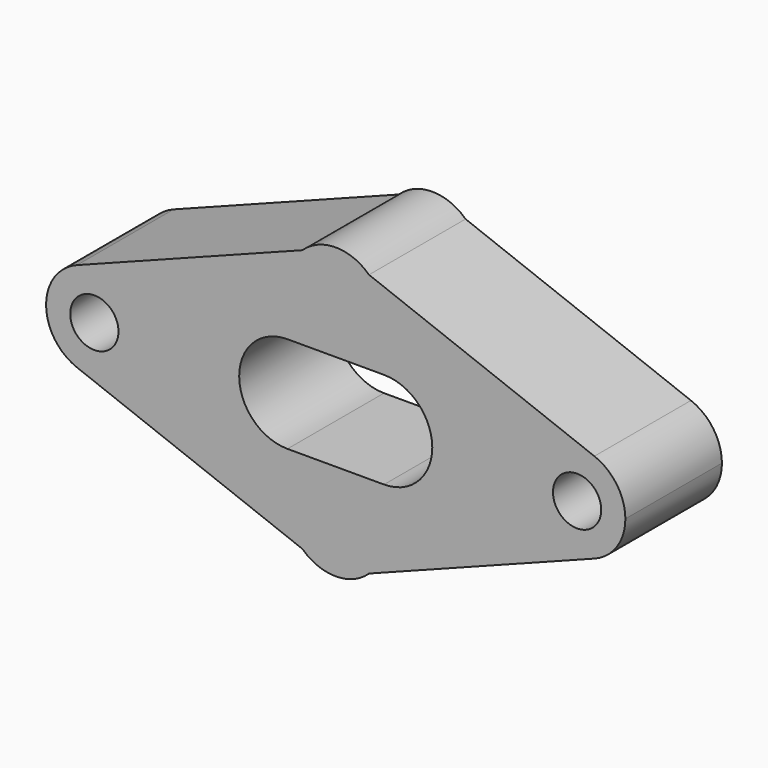
from build123d import *

# Parameters (mm, degrees)
F0_R     = 5
F1_DEPTH = 25


with BuildPart() as f1:
    # F0 (on Front) → F1 (new body)
    with BuildSketch(Plane.XZ):
        with BuildLine():
            ThreePointArc((-53.580579, -9.336994), (-44.33457, -8.240321), (-40, 0))
            ThreePointArc((-40, 0), (-44.33457, 8.240321), (-53.580579, 9.336994))
            ThreePointArc((-53.580579, 9.336994), (-60, 0), (-53.580579, -9.336994))
        make_face()
        with Locations((-50, 0)):
            Circle(F0_R, mode=Mode.SUBTRACT)
        with BuildLine():
            ThreePointArc((-53.580579, 9.336994), (-44.33457, 8.240321), (-40, 0))
            ThreePointArc((-40, 0), (-44.33457, -8.240321), (-53.580579, -9.336994))
            Line((-53.580579, -9.336994), (-6.895611, -27.244659))
            ThreePointArc((-6.895611, -27.244659), (0, -30.002384), (6.895611, -27.244659))
            Line((6.895611, -27.244659), (53.580579, -9.336994))
            ThreePointArc((53.580579, -9.336994), (40, 0), (53.580579, 9.336994))
            Line((53.580579, 9.336994), (6.895611, 27.239891))
            ThreePointArc((6.895611, 27.239891), (0, 29.997616), (-6.895611, 27.239891))
            Line((-6.895611, 27.239891), (-53.580579, 9.336994))
        make_face()
        with BuildLine():
            Line((0.218334, 10), (10, 10))
            ThreePointArc((10, 10), (20, 0), (10, -10))
            Line((10, -10), (-10, -10))
            ThreePointArc((-10, -10), (-20, 0), (-10, 10))
            Line((-10, 10), (-0.218334, 10))
            Line((-0.218334, 10), (0.218334, 10))
        make_face(mode=Mode.SUBTRACT)
        with BuildLine():
            ThreePointArc((60, 0), (58.240321, 5.66543), (53.580579, 9.336994))
            ThreePointArc((53.580579, 9.336994), (40, 0), (53.580579, -9.336994))
            ThreePointArc((53.580579, -9.336994), (58.240321, -5.66543), (60, 0))
        make_face()
        with Locations((50, 0)):
            Circle(F0_R, mode=Mode.SUBTRACT)
    extrude(amount=F1_DEPTH)


solid = f1.part
